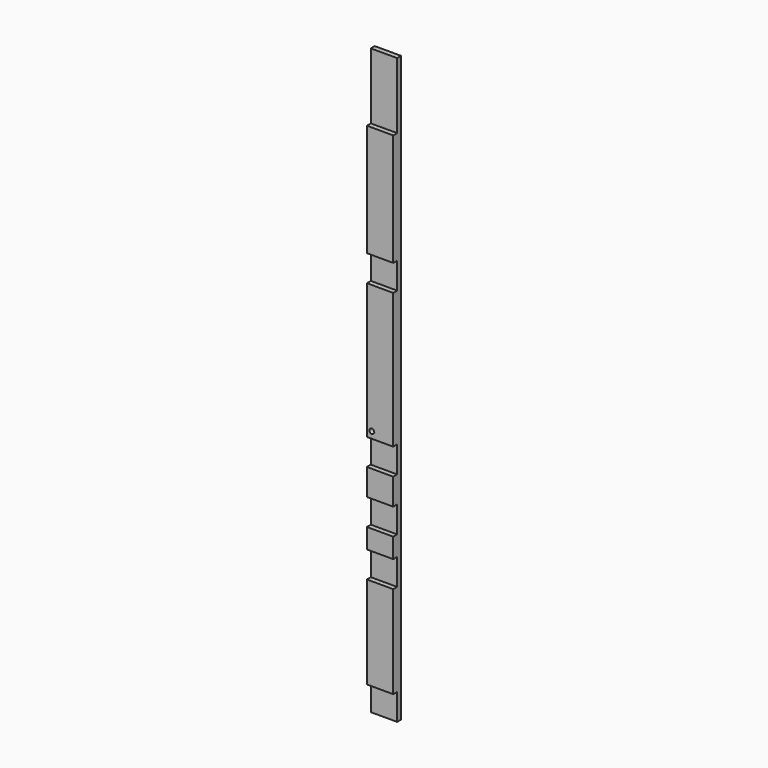
from build123d import *

# Parameters (mm, degrees)
F0_W     = 50.8
F0_H     = 19.05
F1_DEPTH = 1123.95
F2_W     = 122.435573
F2_H     = 50.8
F2_W_2   = 108.831619
F2_W_3   = 93.867282
F2_W_4   = 145.562325
F2_W_5   = 343.160421
F2_H_2   = 127
F2_W_6   = 155.851283
F3_DEPTH = 25.4
F4_R     = 0.79375
F5_DEPTH = 25.4
F6_R     = 4.7625
F7_DEPTH = 25.4


with BuildPart() as f1:
    # F0 (on Top) → F1 (new body)
    with BuildSketch(Plane.XY):
        Rectangle(F0_W, F0_H)
    extrude(amount=F1_DEPTH)

    # F2 (on Front) → F3 (cut)
    with BuildSketch(Plane.XZ):
        with Locations((22.446524, 25.4)):
            Rectangle(F2_W, F2_H)
        with Locations((-4.761385, 342.9)):
            Rectangle(F2_W_2, F2_H)
        with Locations((2.720783, 755.65)):
            Rectangle(F2_W_3, F2_H)
        with Locations((-1.360391, 444.5)):
            Rectangle(F2_W_4, F2_H)
        with Locations((-38.781822, 1060.45)):
            Rectangle(F2_W_5, F2_H_2)
        with Locations((-12.806606, 254)):
            Rectangle(F2_W_6, F2_H)
    extrude(amount=F3_DEPTH, mode=Mode.SUBTRACT)

    # F4 (on Front) → F5 (cut)
    with BuildSketch(Plane.XZ):
        with Locations((9.525, 101.6)):
            Circle(F4_R)
        with Locations((9.525, 155.575)):
            Circle(F4_R)
        with Locations((9.525, 625.475)):
            Circle(F4_R)
        with Locations((9.525, 679.45)):
            Circle(F4_R)
        with Locations((-9.525, 625.475)):
            Circle(F4_R)
        with Locations((-9.525, 679.45)):
            Circle(F4_R)
        with Locations((-9.525, 101.6)):
            Circle(F4_R)
        with Locations((-9.525, 155.575)):
            Circle(F4_R)
    extrude(amount=-F5_DEPTH, mode=Mode.SUBTRACT)

    # F6 (on Front) → F7 (cut)
    with BuildSketch(Plane.XZ):
        with Locations((15.875, 254)):
            Circle(F6_R)
        with Locations((-15.875, 254)):
            Circle(F6_R)
        with Locations((-15.875, 482.6)):
            Circle(F6_R)
    extrude(amount=F7_DEPTH, mode=Mode.SUBTRACT)


solid = f1.part
